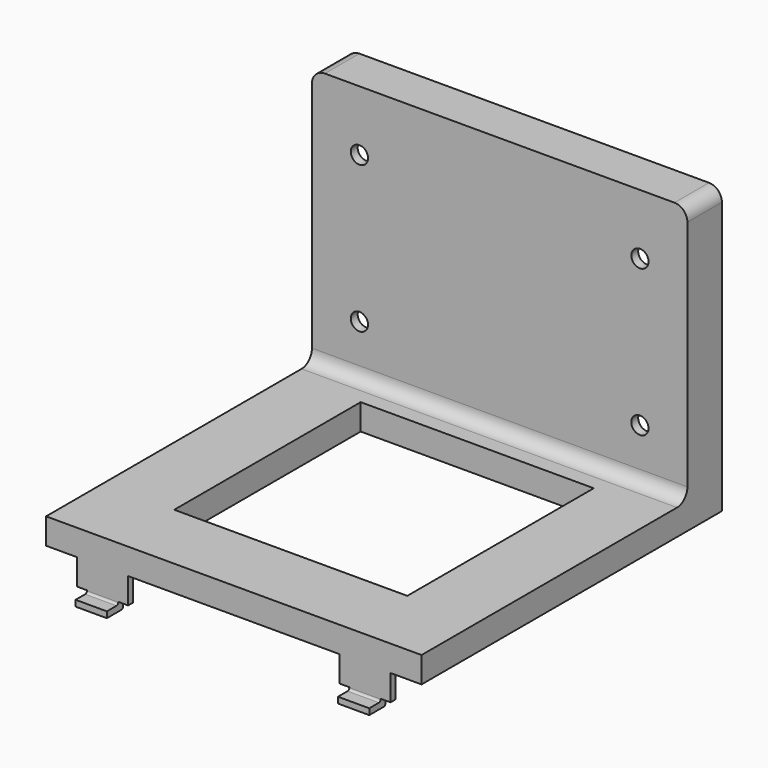
from build123d import *

# Parameters (mm, degrees)
SKETCH_W        = 87
SKETCH_H        = 87
SKETCH_W_2      = 54
SKETCH_H_2      = 54
PAD_DEPTH       = 6
SKETCH001_W     = 84.2
SKETCH001_H     = 84.2
SKETCH001_W_2   = 56.8
SKETCH001_H_2   = 56.8
POCKET_DEPTH    = 4.6
PAD001_DEPTH    = 1.4
SKETCH003_W     = 7.25
SKETCH003_H     = 1.4
PAD002_DEPTH    = 3.3
PAD006_DEPTH    = 1.4
SKETCH004_W     = 30
SKETCH004_H     = 6.5
PAD003_DEPTH    = 1.4
SKETCH005_W     = 30
SKETCH005_H     = 1.4
PAD004_DEPTH    = 11
SKETCH008_R     = 2.5
HOLE001_DEPTH   = 8.001
SKETCH006_W     = 87
SKETCH006_H     = 10
PAD005_DEPTH    = 60
SKETCH007_R     = 2
HOLE_DEPTH      = 54.501
SKETCH009_W     = 84.2
SKETCH009_H     = 57.2
POCKET001_DEPTH = 8
FILLET_R        = 3
FILLET001_R     = 0.5


with BuildPart() as part:
    # Sketch → Pad (new body)
    with BuildSketch(Plane.XY):
        Rectangle(SKETCH_W, SKETCH_H)
        Rectangle(SKETCH_W_2, SKETCH_H_2, mode=Mode.SUBTRACT)
    extrude(amount=PAD_DEPTH)

    # Sketch001 → Pocket (cut)
    with BuildSketch(Plane.XY):
        Rectangle(SKETCH001_W, SKETCH001_H)
        Rectangle(SKETCH001_W_2, SKETCH001_H_2, mode=Mode.SUBTRACT)
    extrude(amount=POCKET_DEPTH, mode=Mode.SUBTRACT)

    # Sketch002 (on DatumPlane) → Pad001 (join)
    with BuildSketch(Plane.XZ.offset(43.5)):
        Polygon((-36.3, 0), (-24.5, 0), (-24.5, -6), (-26.775, -6), (-26.775, -8), (-34.025, -8), (-34.025, -6), (-36.3, -6), align=None)
    pad001 = extrude(amount=-PAD001_DEPTH)

    # Sketch003 (on DatumPlane) → Pad002 (join)
    with BuildSketch(Plane.XZ.offset(43.5)):
        with Locations((-30.4, -7.3)):
            Rectangle(SKETCH003_W, SKETCH003_H)
    pad002 = extrude(amount=PAD002_DEPTH)

    # Sketch010 (on DatumPlane) → Pad006 (join)
    with BuildSketch(Plane.XZ.offset(-43.5)):
        Polygon((-25.5, 0), (-35.2, 0), (-35.2, -6.5), (-32.45, -6.5), (-32.45, -7.85), (-28.25, -7.85), (-28.25, -6.5), (-25.5, -6.5), align=None)
    pad006 = extrude(amount=PAD006_DEPTH)

    # Mirrored002: Pad001, Pad002, Pad006 across Sketch003 V_Axis
    add(pad001.mirror(Plane(origin=(0, -43.5, 0), x_dir=(0, -1, 0), z_dir=(1, 0, 0))))
    add(pad002.mirror(Plane(origin=(0, -43.5, 0), x_dir=(0, -1, 0), z_dir=(1, 0, 0))))
    add(pad006.mirror(Plane(origin=(0, -43.5, 0), x_dir=(0, -1, 0), z_dir=(1, 0, 0))))

    # Sketch004 (on DatumPlane) → Pad003 (join)
    with BuildSketch(Plane.XZ.offset(-43.5)):
        with Locations((0, -3.25)):
            Rectangle(SKETCH004_W, SKETCH004_H)
    extrude(amount=PAD003_DEPTH)

    # Sketch005 (on DatumPlane) → Pad004 (join)
    with BuildSketch(Plane.XZ.offset(-43.5)):
        with Locations((0, -5.8)):
            Rectangle(SKETCH005_W, SKETCH005_H)
    extrude(amount=-PAD004_DEPTH)

    # Sketch008 → Hole001 (cut, through all)
    with BuildSketch(Plane.XY):
        with Locations((0, 49.5)):
            Circle(SKETCH008_R)
    extrude(amount=-HOLE001_DEPTH, mode=Mode.SUBTRACT)

    # Sketch006 (on DatumPlane) → Pad005 (join)
    with BuildSketch(Plane.XY.offset(6)):
        with Locations((0, 38.5)):
            Rectangle(SKETCH006_W, SKETCH006_H)
    extrude(amount=PAD005_DEPTH)

    # Sketch007 → Hole (cut, through all)
    with BuildSketch(Plane.XZ):
        with Locations((-32.5, 52)):
            Circle(SKETCH007_R)
        with Locations((32.5, 52)):
            Circle(SKETCH007_R)
        with Locations((-32.5, 18)):
            Circle(SKETCH007_R)
        with Locations((32.5, 18)):
            Circle(SKETCH007_R)
    extrude(amount=-HOLE_DEPTH, mode=Mode.SUBTRACT)

    # Sketch009 (on DatumPlane) → Pocket001 (cut)
    with BuildSketch(Plane.XZ.offset(-43.5)):
        with Locations((0, 36)):
            Rectangle(SKETCH009_W, SKETCH009_H)
    extrude(amount=POCKET001_DEPTH, mode=Mode.SUBTRACT)

    # Fillet
    fillet_edges = [part.edges().sort_by_distance(p)[0] for p in [
        (43.5, 38.5, 66),
        (-43.5, 38.5, 66),
        (-42.1, 39.5, 64.6),
        (42.1, 39.5, 64.6),
        (42.1, 39.5, 7.4),
        (-42.1, 39.5, 7.4),
        (0, 33.5, 6),
    ]]
    fillet(fillet_edges, radius=FILLET_R)

    # Fillet001
    fillet001_edges = [part.edges().sort_by_distance(p)[0] for p in [
        (0, 43.5, -5.1),
        (0, 42.1, -6.5),
        (30.4, -43.5, -6.6),
        (-30.4, -43.5, -6.6),
        (-30.4, -42.1, -8),
        (30.4, -42.1, -8),
    ]]
    fillet(fillet001_edges, radius=FILLET001_R)


solid = part.part
